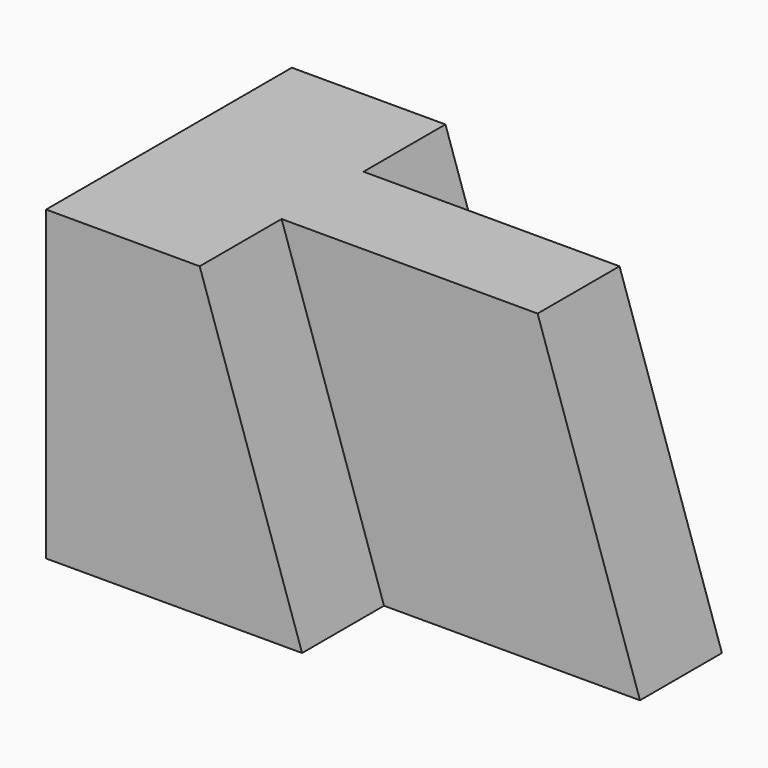
from build123d import *

# Parameters (mm, degrees)
F0_W     = 57.15
F0_H     = 38.1
F1_DEPTH = 38.1
F2_W     = 31.75
F2_H     = 38.1
F3_DEPTH = 12.7
F5_DEPTH = 12.7
F6_W     = 31.75
F6_H     = 38.1
F7_DEPTH = 12.7
F8_DEPTH = 6.35


with BuildPart() as f1:
    # F0 (on Front) → F1 (new body)
    with BuildSketch(Plane.XZ):
        with Locations((28.575, 19.05)):
            Rectangle(F0_W, F0_H)
    extrude(amount=F1_DEPTH)

    # F2 (on face) → F3 (cut)
    with BuildSketch(Plane.XZ.offset(38.1)):
        with Locations((41.275, 19.05)):
            Rectangle(F2_W, F2_H)
        Polygon((12.7, 38.1), (25.4, 0), (25.4, 38.1), align=None)
    extrude(amount=-F3_DEPTH, mode=Mode.SUBTRACT)

    # F4 (on face) → F5 (cut)
    with BuildSketch(Plane.XZ.offset(25.4)):
        Polygon((44.45, 38.1), (57.15, 0), (57.15, 38.1), align=None)
    extrude(amount=-F5_DEPTH, mode=Mode.SUBTRACT)

    # F6 (on face) → F7 (cut)
    with BuildSketch(Plane(origin=(0, 0, 0), x_dir=(-1, 0, 0), z_dir=(0, 1, 0))):
        with Locations((-41.275, 19.05)):
            Rectangle(F6_W, F6_H)
        Polygon((-12.7, 38.1), (-25.4, 38.1), (-25.4, 0), align=None)
    extrude(amount=-F7_DEPTH, mode=Mode.SUBTRACT)

    # F8 (add): a face of the model
    f8_faces = [f1.faces().sort_by_distance(p)[0] for p in [
        (0, -19.05, 19.05),
    ]]
    extrude(f8_faces, amount=F8_DEPTH)


solid = f1.part
